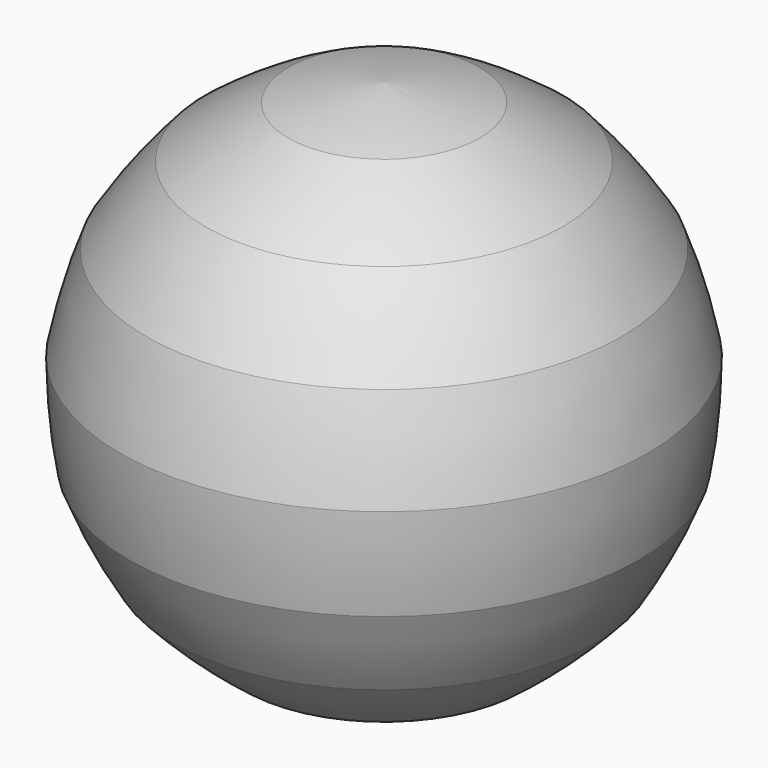
from build123d import *


with BuildPart() as f1:
    # F0 (on Front) → F1 (revolve)
    with BuildSketch(Plane.XZ):
        with BuildLine():
            ThreePointArc((0, -23.873372), (2.214597, -23.822206), (4.424469, -23.668816))
            ThreePointArc((4.424469, -23.668816), (8.624057, -22.261256), (12.675857, -20.472212))
            ThreePointArc((12.675857, -20.472212), (16.083387, -17.642635), (19.2153, -14.510721))
            ThreePointArc((19.2153, -14.510721), (21.370566, -10.641278), (23.159611, -6.589477))
            ThreePointArc((23.159611, -6.589477), (23.771532, -2.202757), (23.976088, 2.221712))
            ThreePointArc((23.976088, 2.221712), (22.962021, 6.533258), (21.554461, 10.732846))
            ThreePointArc((21.554461, 10.732846), (19.051362, 14.386921), (16.221785, 17.794451))
            ThreePointArc((16.221785, 17.794451), (12.567711, 20.29755), (8.698267, 22.452816))
            ThreePointArc((8.698267, 22.452816), (4.386721, 23.466882), (0, 24.078804))
            Line((0, 24.078804), (0, -23.873372))
        make_face()
    revolve(axis=Axis((0, 0, 0.102716), (0, 0, 1)))


solid = f1.part
